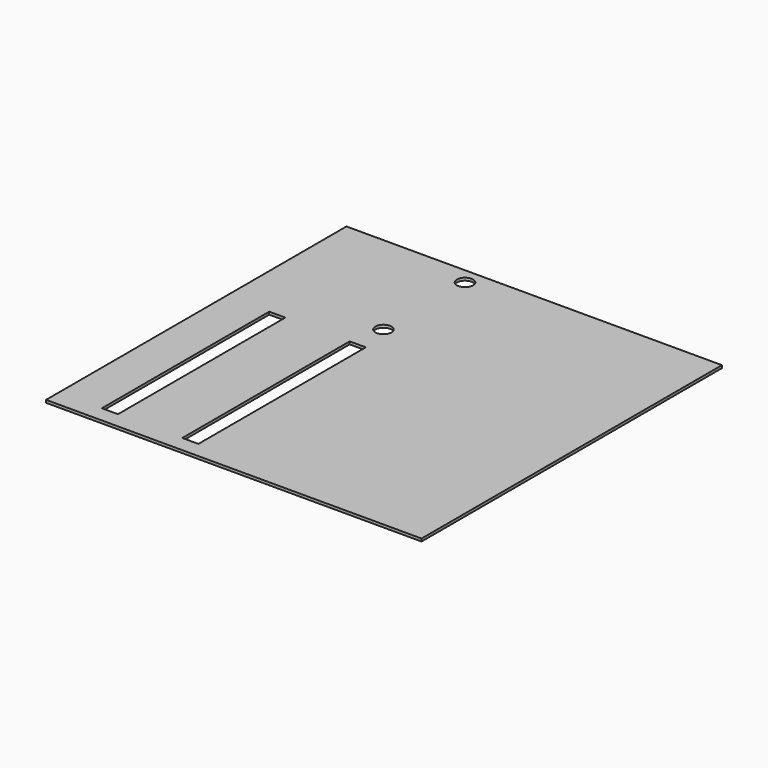
from build123d import *

# Parameters (mm, degrees)
F0_W     = 70
F0_H     = 70
F1_DEPTH = 0.5
F2_W     = 3
F2_H     = 39
F2_R     = 1.5
F3_DEPTH = 0.501


with BuildPart() as f1:
    # F0 (on Top) → F1 (new body)
    with BuildSketch(Plane.XY):
        with Locations((-35, -35)):
            Rectangle(F0_W, F0_H)
    extrude(amount=F1_DEPTH)

    # F2 (on Top) → F3 (cut, through all)
    with BuildSketch(Plane.XY):
        with Locations((-60.5, -47.5)):
            Rectangle(F2_W, F2_H)
        with Locations((-45.5, -47.5)):
            Rectangle(F2_W, F2_H)
        with Locations((-45.5, -3)):
            Circle(F2_R)
        with Locations((-45.5, -22)):
            Circle(F2_R)
    extrude(amount=F3_DEPTH, mode=Mode.SUBTRACT)


solid = f1.part
